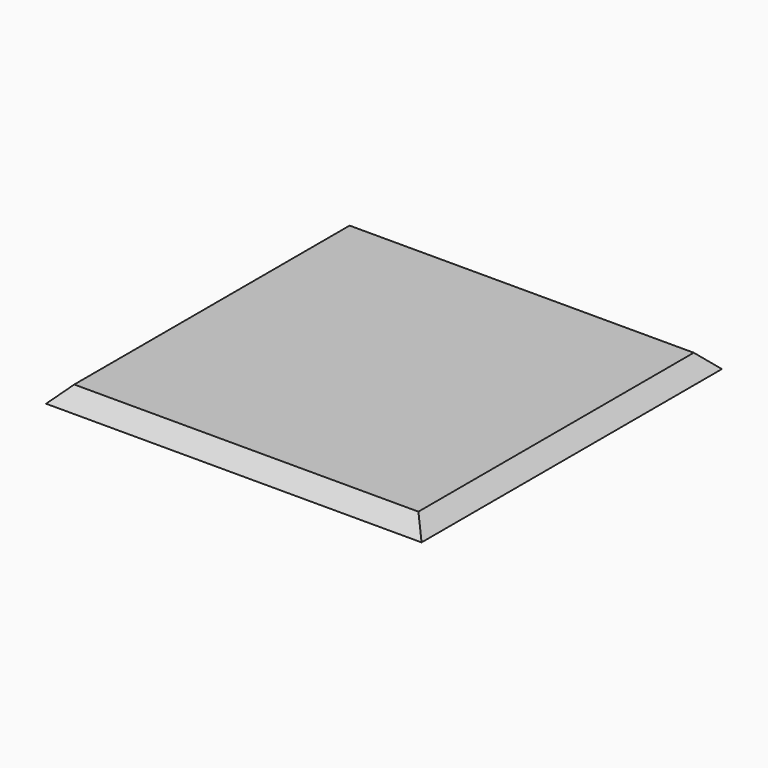
from build123d import *

# Parameters (mm, degrees)
F0_W     = 76.2
F0_H     = 76.2
F1_DEPTH = 3.175
F4_DEPTH = 76.2
F5_DEPTH = 76.2


with BuildPart() as f1:
    # F0 (on Top) → F1 (new body)
    with BuildSketch(Plane.XY):
        Rectangle(F0_W, F0_H)
    extrude(amount=F1_DEPTH)

    # F3 (on face) → F4 (cut)
    with BuildSketch(Plane(origin=(0, 38.1, 0), x_dir=(-1, 0, 0), z_dir=(0, 1, 0))):
        Polygon((-38.1, 3.175), (-38.1, 0), (-34.925, 3.175), align=None)
        Polygon((34.925, 3.175), (38.1, 0), (38.1, 3.175), align=None)
    extrude(amount=-F4_DEPTH, mode=Mode.SUBTRACT)

    # F2 (on face) → F5 (cut)
    with BuildSketch(Plane.YZ.offset(38.1)):
        Polygon((34.925, 3.175), (38.1, 0), (38.1, 3.175), align=None)
        Polygon((-38.1, 3.175), (-38.1, 0), (-34.925, 3.175), align=None)
    extrude(amount=-F5_DEPTH, mode=Mode.SUBTRACT)


solid = f1.part
